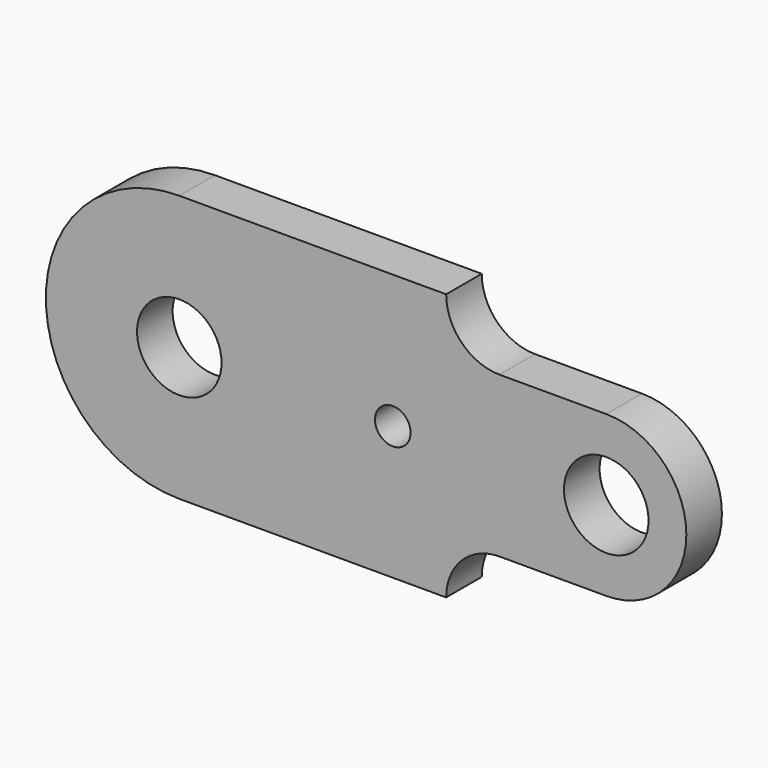
from build123d import *

# Parameters (mm, degrees)
F0_R     = 9.5
F0_R_2   = 4
F1_DEPTH = 10


with BuildPart() as f1:
    # F0 (on Front) → F1 (new body)
    with BuildSketch(Plane.XZ):
        with BuildLine():
            Line((60, 30), (0, 30))
            ThreePointArc((0, 30), (-30, 0), (0, -30))
            Line((0, -30), (60, -30))
            ThreePointArc((60, -30), (63.514719, -21.514719), (72, -18))
            Line((72, -18), (96, -18))
            ThreePointArc((96, -18), (114, 0), (96, 18))
            Line((96, 18), (72, 18))
            ThreePointArc((72, 18), (63.514719, 21.514719), (60, 30))
        make_face()
        Circle(F0_R, mode=Mode.SUBTRACT)
        with Locations((48, 0)):
            Circle(F0_R_2, mode=Mode.SUBTRACT)
        with Locations((96, 0)):
            Circle(F0_R, mode=Mode.SUBTRACT)
    extrude(amount=F1_DEPTH)


solid = f1.part
